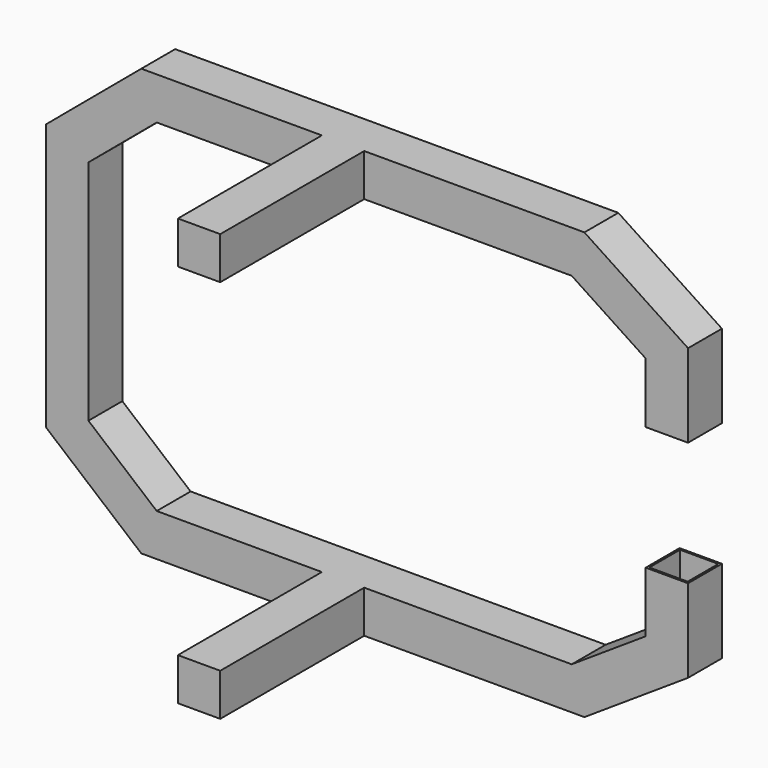
from build123d import *

# Parameters (mm, degrees)
F0_W   = 44.45
F0_H   = 44.45
F0_W_2 = 40.2336
F0_H_2 = 40.2336
F4_W   = 44.45
F4_H   = 44.45


with BuildPart() as f2:
    # F2: sweep along a path in F1
    with BuildLine(Plane.XZ) as f2_path:
        Line((-26.4134310049, 0), (-26.4134310049, -152.4))
        Line((-26.4134310049, -152.4), (90.3317421264, -250.3608317162))
        Line((90.3317421264, -250.3608317162), (572.9317421264, -250.3608317162))
        Line((572.9317421264, -250.3608317162), (700.2069564241, -166.5349417689))
        Line((700.2069564241, -166.5349417689), (700.2069564241, -64.9349417689))
    # F0 (on Top) → F2 (sweep)
    with BuildSketch(Plane.XY):
        with Locations((22.225, 22.225)):
            Rectangle(F0_W, F0_H)
        with Locations((22.225, 22.225)):
            Rectangle(F0_W_2, F0_H_2, mode=Mode.SUBTRACT)
    sweep(path=f2_path.line, transition=Transition.RIGHT)

    # F3: F2 across plane


with BuildPart() as f2_1:
    add(f2.part)
    add(f2.part.mirror(Plane.XY))

    # F6: sweep along a path in F5
    with BuildLine(Plane(origin=(0, 0, -223.9474007113), x_dir=(1, 0, 0), z_dir=(0, 0, -1))) as f6_path:
        Line((310.839508958, 21.8996291945), (310.839508958, 210.8011354046))
    # F4 (on face) → F6 (sweep)
    with BuildSketch(Plane.XZ):
        with Locations((311.6830310474, -201.7224007113)):
            Rectangle(F4_W, F4_H)
    sweep(path=f6_path.line)

    # F7: F2 across plane


with BuildPart() as f2_2:
    add(f2_1.part)
    add(f2_1.part.mirror(Plane.XY))


solid = f2_2.part
